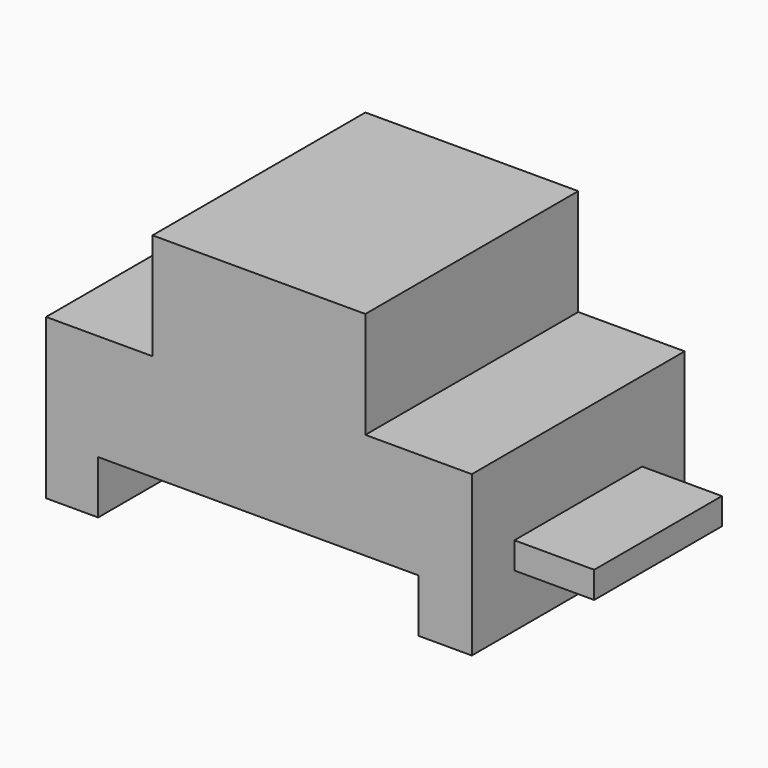
from build123d import *

# Parameters (mm, degrees)
F1_DEPTH = 63.5
F2_W     = 38.1
F2_H     = 6.35
F3_DEPTH = 19.05


with BuildPart() as f1:
    # F0 (on Front) → F1 (new body)
    with BuildSketch(Plane.XZ):
        Polygon((25.4, 38.1), (0, 38.1), (0, 0), (12.427021, 0), (12.427021, 12.7), (88.9, 12.7), (88.9, 0), (101.327021, 0), (101.6, 0), (101.6, 12.7), (101.6, 38.1), (76.2, 38.1), (76.2, 63.5), (25.4, 63.5), align=None)
    extrude(amount=F1_DEPTH)

    # F2 (on face) → F3 (join)
    with BuildSketch(Plane.YZ.offset(101.6)):
        with Locations((-31.75, 15.875)):
            Rectangle(F2_W, F2_H)
    extrude(amount=F3_DEPTH)


solid = f1.part
